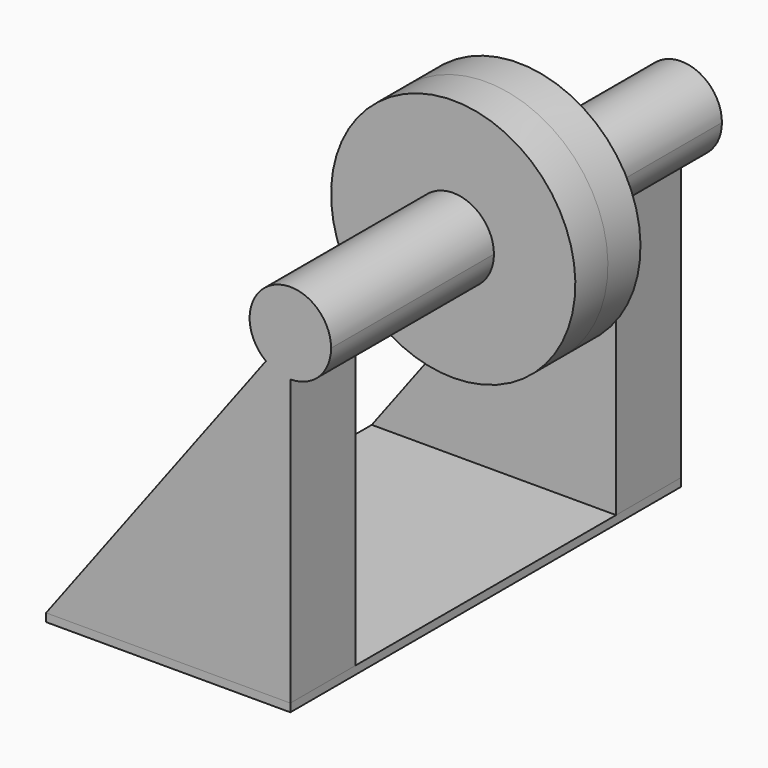
from build123d import *

# Parameters (mm, degrees)
F0_W     = 76.2
F0_H     = 2.54
F1_DEPTH = 76.2
F2_DEPTH = 76.2
F3_W     = 101.6
F3_H     = 88.9
F4_DEPTH = 76.201
F5_DEPTH = 12.7


with BuildPart() as f1:
    # F0 (on Front) → F1 (new body, symmetric)
    with BuildSketch(Plane.XZ):
        with Locations((-38.1, -102.87)):
            Rectangle(F0_W, F0_H)
    extrude(amount=F1_DEPTH, both=True)

    # F0 (on Front) → F2 (join, symmetric)
    with BuildSketch(Plane.XZ):
        with BuildLine():
            ThreePointArc((0, -38.1), (-12.0482778852, -36.1448336557), (-22.86, -30.48))
            Line((-22.86, -30.48), (-76.2, -101.6))
            Line((-76.2, -101.6), (0, -101.6))
            Line((0, -101.6), (0, -38.1))
        make_face()
        with BuildLine():
            Line((-7.62, -10.16), (0, 0))
            Line((0, 0), (0, -12.7))
            ThreePointArc((0, -12.7), (8.9802561211, -8.9802561211), (12.7, 0))
            ThreePointArc((12.7, 0), (-5.6796126628, 11.3592253257), (-7.62, -10.16))
        make_face()
        with BuildLine():
            ThreePointArc((0, -12.7), (-4.0160926284, -12.0482778852), (-7.62, -10.16))
            Line((-7.62, -10.16), (-22.86, -30.48))
            ThreePointArc((-22.86, -30.48), (-12.0482778852, -36.1448336557), (0, -38.1))
            Line((0, -38.1), (0, -12.7))
        make_face()
        with BuildLine():
            Line((0, -12.7), (0, 0))
            Line((0, 0), (-7.62, -10.16))
            ThreePointArc((-7.62, -10.16), (-4.0160926284, -12.0482778852), (0, -12.7))
        make_face()
    extrude(amount=F2_DEPTH, both=True)

    # F3 (on face) → F4 (cut, through all)
    with BuildSketch(Plane.YZ):
        with Locations((0, -57.15)):
            Rectangle(F3_W, F3_H)
    extrude(amount=-F4_DEPTH, mode=Mode.SUBTRACT)


with BuildPart() as f5:
    # F0 (on Front) → F5 (new body, symmetric)
    with BuildSketch(Plane.XZ):
        with BuildLine():
            Line((-22.86, -30.48), (-7.62, -10.16))
            ThreePointArc((-7.62, -10.16), (-5.6796126628, 11.3592253257), (12.7, 0))
            ThreePointArc((12.7, 0), (8.9802561211, -8.9802561211), (0, -12.7))
            Line((0, -12.7), (0, -38.1))
            ThreePointArc((0, -38.1), (26.9407683632, -26.9407683632), (38.1, 0))
            ThreePointArc((38.1, 0), (-17.0388379885, 34.0776759771), (-22.86, -30.48))
        make_face()
        with BuildLine():
            ThreePointArc((0, -12.7), (-4.0160926284, -12.0482778852), (-7.62, -10.16))
            Line((-7.62, -10.16), (-22.86, -30.48))
            ThreePointArc((-22.86, -30.48), (-12.0482778852, -36.1448336557), (0, -38.1))
            Line((0, -38.1), (0, -12.7))
        make_face()
    extrude(amount=F5_DEPTH, both=True)


solid = Compound([f1.part, f5.part])
